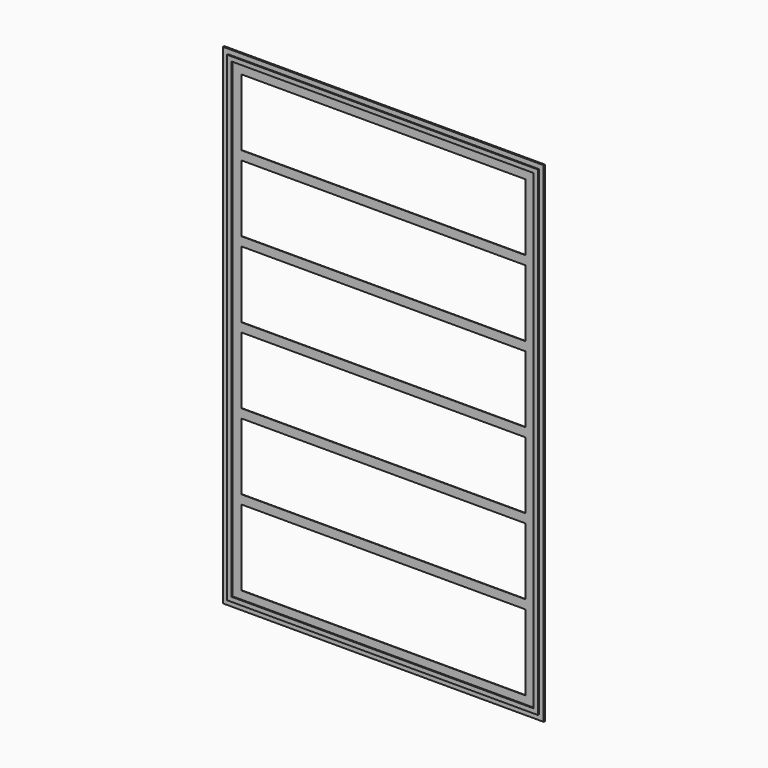
from build123d import *

# Parameters (mm, degrees)
F0_W     = 72
F0_H     = 0.1
F1_DEPTH = 110
F2_W     = 69.8
F2_H     = 107.8
F2_W_2   = 67.8
F2_H_2   = 105.8
F3_DEPTH = 0.25
F4_W     = 72
F4_H     = 110
F4_W_2   = 70
F4_H_2   = 108
F5_DEPTH = 0.25
F6_W     = 63.8
F6_H     = 15
F6_H_2   = 17
F7_DEPTH = 2


with BuildPart() as f1:
    # F0 (on Top) → F1 (new body)
    with BuildSketch(Plane.XY):
        Rectangle(F0_W, F0_H)
    extrude(amount=F1_DEPTH)

    # F2 (on face) → F3 (join)
    with BuildSketch(Plane.XZ.offset(0.05)):
        with Locations((0, 55)):
            Rectangle(F2_W, F2_H)
        with Locations((0, 55)):
            Rectangle(F2_W_2, F2_H_2, mode=Mode.SUBTRACT)
    extrude(amount=F3_DEPTH)

    # F4 (on face) → F5 (join)
    with BuildSketch(Plane(origin=(0, 0.05, 0), x_dir=(-1, 0, 0), z_dir=(0, 1, 0))):
        with Locations((0, 55)):
            Rectangle(F4_W, F4_H)
        with Locations((0, 55)):
            Rectangle(F4_W_2, F4_H_2, mode=Mode.SUBTRACT)
    extrude(amount=F5_DEPTH)

    # F6 (on face) → F7 (cut)
    with BuildSketch(Plane.XZ.offset(0.05)):
        with Locations((0, 98.4)):
            Rectangle(F6_W, F6_H)
        with Locations((0, 81.4)):
            Rectangle(F6_W, F6_H)
        with Locations((0, 64.4)):
            Rectangle(F6_W, F6_H)
        with Locations((0, 47.4)):
            Rectangle(F6_W, F6_H)
        with Locations((0, 30.4)):
            Rectangle(F6_W, F6_H)
        with Locations((0, 12.4)):
            Rectangle(F6_W, F6_H_2)
    extrude(amount=-F7_DEPTH, mode=Mode.SUBTRACT)


solid = f1.part
